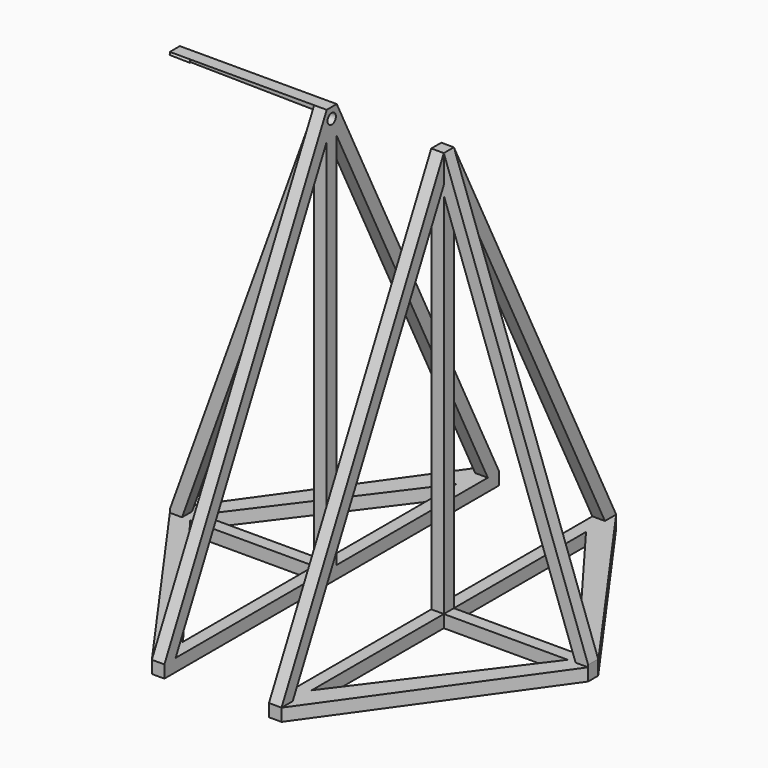
from build123d import *

# Parameters (mm, degrees)
F2_DEPTH  = 400
F4_DEPTH  = 500
F6_DEPTH  = 500
F8_DEPTH  = 200
F10_DEPTH = 400
F11_R     = 5
F12_DEPTH = 60
F14_DEPTH = 106


with BuildPart() as f2:
    # F1 (on Top) → F2 (new body)
    with BuildSketch(Plane.XY):
        Polygon((-62, 200), (-200, 6), (-200, -6), (-62, -200), (-50, -200), (-50, 200), align=None)
        Polygon((62, 200), (50, 200), (50, -200), (62, -200), (200, -6), (200, 6), align=None)
    extrude(amount=F2_DEPTH)

    # F3 (on Front) → F4 (cut, symmetric)
    with BuildSketch(Plane.XZ):
        Polygon((-340.12854, 400), (-200, 15), (-62, 396.075697), align=None)
        Polygon((-62, 12), (-62, 360.832798), (-188.32379, 12), align=None)
    extrude(amount=F4_DEPTH, both=True, mode=Mode.SUBTRACT)

    # F5 (on Front) → F6 (cut, symmetric)
    with BuildSketch(Plane.XZ):
        Polygon((188, 12), (62, 364.360822), (62, 12), align=None)
        Polygon((200, 400), (62, 400), (200, 14.081005), align=None)
    extrude(amount=F6_DEPTH, both=True, mode=Mode.SUBTRACT)

    # F7 (on Right) → F8 (cut, symmetric)
    with BuildSketch(Plane.YZ):
        Polygon((-6, 400), (-200, 400), (-200, 12), align=None)
        Polygon((200, 12), (200, 400), (6, 400), align=None)
        Polygon((-6, 373.167184), (-186.583592, 12), (-6, 12), align=None)
        Polygon((6, 12), (186.583592, 12), (6, 373.167184), align=None)
    extrude(amount=F8_DEPTH, both=True, mode=Mode.SUBTRACT)

    # F9 (on Top) → F10 (cut)
    with BuildSketch(Plane.XY):
        Polygon((62, 6), (180.5, 6), (62, 164), align=None)
        Polygon((180.5, -6), (62, -6), (62, -164), align=None)
        Polygon((-62, 6), (-62, 164), (-180.5, 6), align=None)
        Polygon((-62, -6), (-180.5, -6), (-62, -164), align=None)
    extrude(amount=F10_DEPTH, mode=Mode.SUBTRACT)

    # F11 (on Right) → F12 (cut, symmetric)
    with BuildSketch(Plane.YZ):
        with Locations((0, 390)):
            Circle(F11_R)
    extrude(amount=F12_DEPTH, both=True, mode=Mode.SUBTRACT)

    # F13 (on offset) → F14 (cut)
    with BuildSketch(Plane.XY.offset(141)):
        Polygon((-62, -200), (-62, -6), (-200, -6), align=None)
        Polygon((-200, 6), (-62, 6), (-62, 200), align=None)
        Polygon((62, 200), (62, 6), (200, 6), align=None)
        Polygon((200, -6), (62, -6), (62, -200), align=None)
    extrude(amount=F14_DEPTH, mode=Mode.SUBTRACT)


solid = f2.part
